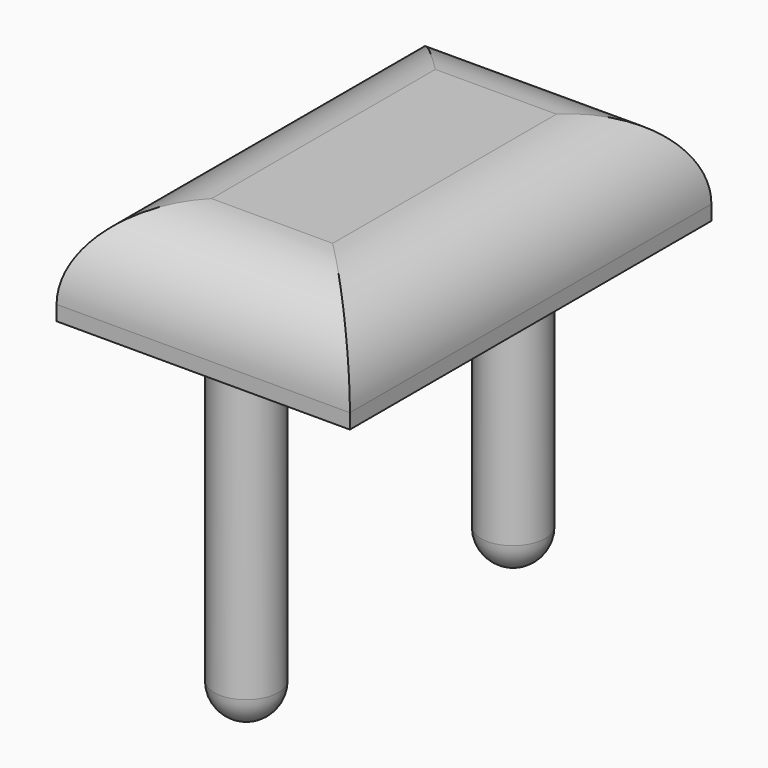
from build123d import *

# Parameters (mm, degrees)
F0_W     = 17.30713
F0_H     = 5.958192
F1_DEPTH = 13.335
F2_DEPTH = 13.335
F3_R     = 5.08
F4_R     = 1.905
F5_DEPTH = 19.05
F6_R     = 1.905


with BuildPart() as f1:
    # F0 (on Front) → F1 (new body)
    with BuildSketch(Plane.XZ):
        Rectangle(F0_W, F0_H)
    extrude(amount=F1_DEPTH)

    # F0 (on Front) → F2 (join)
    with BuildSketch(Plane.XZ):
        Rectangle(F0_W, F0_H)
    extrude(amount=-F2_DEPTH)

    # F3
    f3_edges = [f1.edges().sort_by_distance(p)[0] for p in [
        (8.653565, 0, 2.979096),
        (0, 13.335, 2.979096),
        (-8.653565, 0, 2.979096),
        (0, -13.335, 2.979096),
    ]]
    fillet(f3_edges, radius=F3_R)

    # F4 (on face) → F5 (join)
    with BuildSketch(Plane(origin=(0, 0, -2.979096), x_dir=(1, 0, 0), z_dir=(0, 0, -1))):
        with Locations((0, 10.16)):
            Circle(F4_R)
        with Locations((0, -9.525)):
            Circle(F4_R)
    extrude(amount=F5_DEPTH)

    # F6
    f6_edges = [f1.edges().sort_by_distance(p)[0] for p in [
        (-1.905, -10.16, -22.029096),
        (-1.905, 9.525, -22.029096),
    ]]
    fillet(f6_edges, radius=F6_R)


solid = f1.part
